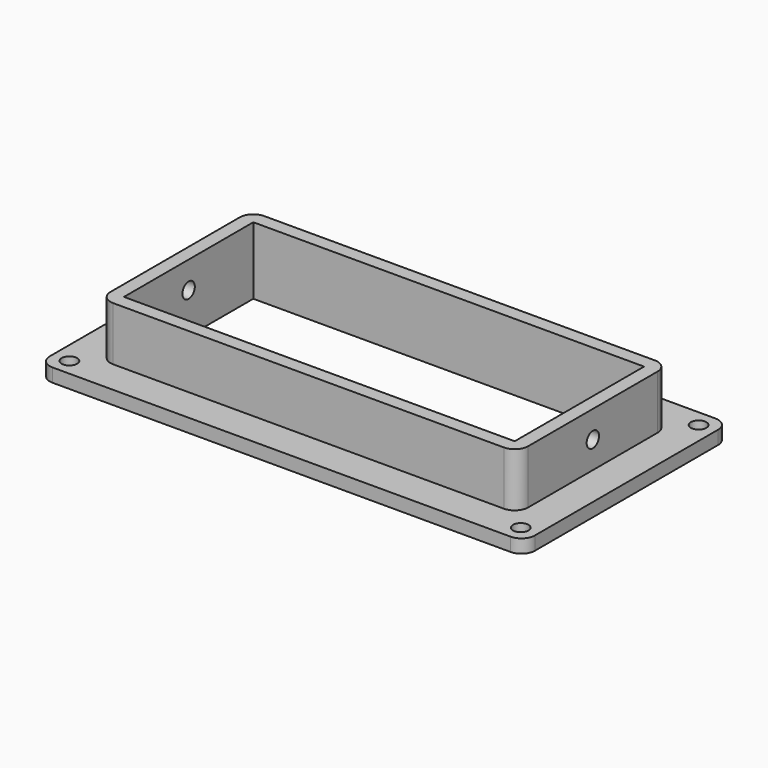
from build123d import *

# Parameters (mm, degrees)
SKETCH_W             = 62
SKETCH_H             = 28
SKETCH_W_2           = 58
SKETCH_H_2           = 24
PAD_DEPTH            = 10
SKETCH001_W          = 72
SKETCH001_H          = 38
SKETCH001_W_2        = 62
SKETCH001_H_2        = 28
PAD001_DEPTH         = 2
SKETCH002_R          = 1.15
POCKET_DEPTH         = 0.001
POCKET_DEPTH_BACK    = -10.001
SKETCH003_R          = 1.15
POCKET001_DEPTH      = 36.001
POCKET001_DEPTH_BACK = -36.001
FILLET_R             = 2


with BuildPart() as part:
    # Sketch → Pad (new body)
    with BuildSketch(Plane.XY):
        Rectangle(SKETCH_W, SKETCH_H)
        Rectangle(SKETCH_W_2, SKETCH_H_2, mode=Mode.SUBTRACT)
    extrude(amount=PAD_DEPTH)

    # Sketch001 → Pad001 (join)
    with BuildSketch(Plane.XY):
        Rectangle(SKETCH001_W, SKETCH001_H)
        Rectangle(SKETCH001_W_2, SKETCH001_H_2, mode=Mode.SUBTRACT)
    extrude(amount=PAD001_DEPTH)

    # Sketch002 → Pocket (cut, two sides)
    with BuildSketch(Plane.XY) as pocket_sk:
        with Locations((-33.5, 16.5)):
            Circle(SKETCH002_R)
        with Locations((33.5, 16.5)):
            Circle(SKETCH002_R)
        with Locations((33.5, -16.5)):
            Circle(SKETCH002_R)
        with Locations((-33.5, -16.5)):
            Circle(SKETCH002_R)
    extrude(amount=-POCKET_DEPTH, mode=Mode.SUBTRACT)
    extrude(pocket_sk.sketch, amount=-POCKET_DEPTH_BACK, mode=Mode.SUBTRACT)

    # Sketch003 → Pocket001 (cut, two sides)
    with BuildSketch(Plane.YZ) as pocket001_sk:
        with Locations((0, 6)):
            Circle(SKETCH003_R)
    extrude(amount=-POCKET001_DEPTH, mode=Mode.SUBTRACT)
    extrude(pocket001_sk.sketch, amount=-POCKET001_DEPTH_BACK, mode=Mode.SUBTRACT)

    # Fillet
    fillet_edges = [part.edges().sort_by_distance(p)[0] for p in [
        (-36, 19, 1),
        (-36, -19, 1),
        (36, -19, 1),
        (36, 19, 1),
        (31, 14, 6),
        (31, -14, 6),
        (-31, 14, 6),
        (-31, -14, 6),
    ]]
    fillet(fillet_edges, radius=FILLET_R)


solid = part.part
